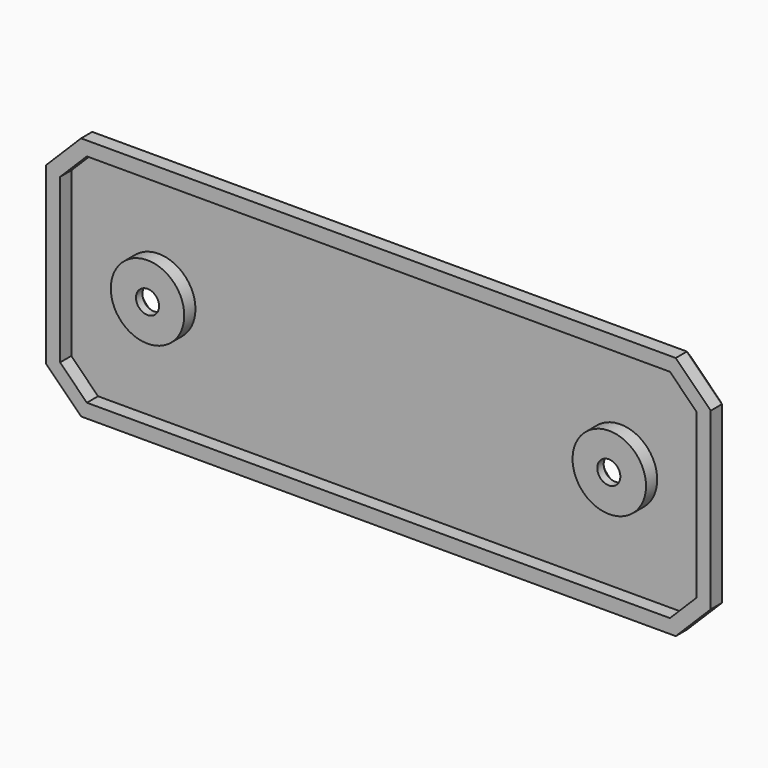
from build123d import *

# Parameters (mm, degrees)
F0_W           = 95
F0_H           = 35
F1_DEPTH       = 3.5
F2_SIZE        = 5
F4_DEPTH       = 2
F5_R           = 5.25
F7_DEPTH       = 2
F8_D           = 3.3
F8_CSINK_D     = 8
F8_CSINK_ANGLE = 90
F9_SIZE        = 1.5


with BuildPart() as f1:
    # F0 (on Front) → F1 (new body)
    with BuildSketch(Plane.XZ):
        Rectangle(F0_W, F0_H)
    extrude(amount=F1_DEPTH)

    # F2
    f2_edges = [f1.edges().sort_by_distance(p)[0] for p in [
        (47.5, -1.75, -17.5),
        (47.5, -1.75, 17.5),
        (-47.5, -1.75, -17.5),
        (-47.5, -1.75, 17.5),
    ]]
    chamfer(f2_edges, length=F2_SIZE)

    # F3 (on face) → F4 (cut)
    with BuildSketch(Plane.XZ.offset(3.5)):
        Polygon((41.6715728753, 15.5), (-41.6715728753, 15.5), (-45.5, 11.6715728753), (-45.5, -11.6715728753), (-41.6715728753, -15.5), (41.6715728753, -15.5), (45.5, -11.6715728753), (45.5, 11.6715728753), align=None)
    extrude(amount=-F4_DEPTH, mode=Mode.SUBTRACT)

    # F5 (on face) → F7 (join, through all)
    with BuildSketch(Plane.XZ.offset(3.5)):
        with Locations((33, 0)):
            Circle(F5_R)
        with Locations((-33, 0)):
            Circle(F5_R)
    extrude(amount=-F7_DEPTH)

    # F8 (through all)
    with Locations(Plane(origin=(0, 0, 0), x_dir=(-1, 0, 0), z_dir=(0, 1, 0))):
        with Locations((33, 0), (-32.9310148954, 0)):
            CounterSinkHole(F8_D / 2, F8_CSINK_D / 2, counter_sink_angle=F8_CSINK_ANGLE)

    # F9
    f9_edges = [f1.edges().sort_by_distance(p)[0] for p in [
        (0, 0, -17.5),
        (45, 0, -15),
        (47.5, 0, 0),
        (45, 0, 15),
        (0, 0, 17.5),
        (-45, 0, 15),
        (-45, 0, -15),
        (-47.5, 0, 0),
    ]]
    chamfer(f9_edges, length=F9_SIZE)


solid = f1.part
